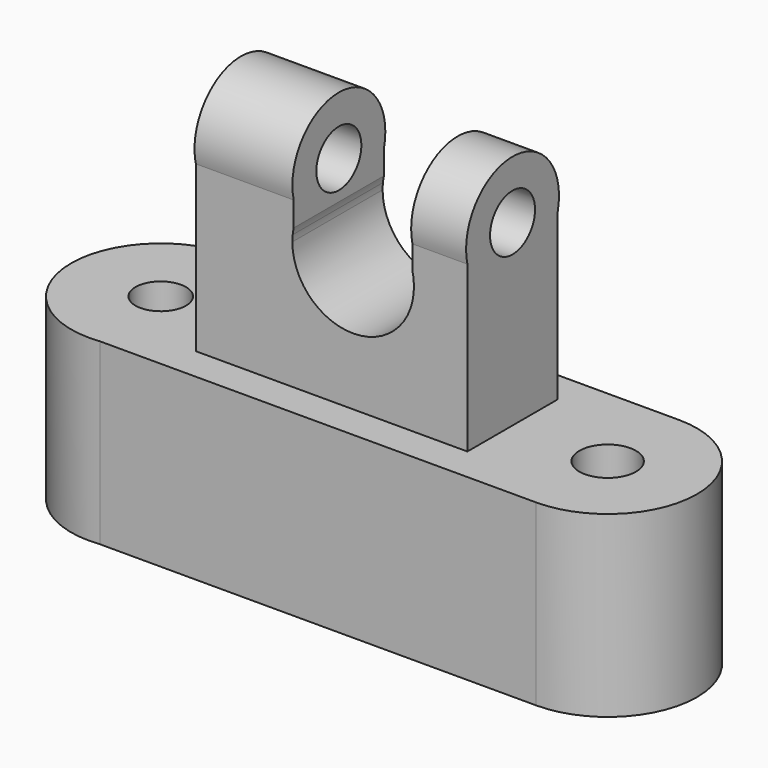
from build123d import *

# Parameters (mm, degrees)
F1_DEPTH  = 25.4
F2_R      = 4.0245383541
F2_R_2    = 3.5896657287
F3_DEPTH  = 25.4
F4_W      = 38.5861545801
F4_H      = 16.0388713703
F5_DEPTH  = 25.4
F6_R      = 8.2548024602
F7_DEPTH  = 38.608
F8_R      = 3.9986797271
F9_DEPTH  = 39.878
F11_DEPTH = 45.212
F12_W     = 16.8811818585
F12_H     = 20.1899148524
F13_DEPTH = 34.29


with BuildPart() as f1:
    # F0 (on Top) → F1 (new body)
    with BuildSketch(Plane.XY):
        with BuildLine():
            ThreePointArc((-29.85904102, -10.2949963908), (-30.9678519001, -7.618090126), (-33.6447581649, -6.5092792459))
            Line((-33.6447581649, -6.5092792459), (-33.6447581649, -14.0807135357))
            ThreePointArc((-33.6447581649, -14.0807135357), (-30.9678519001, -12.9719026556), (-29.85904102, -10.2949963908))
        make_face()
        with BuildLine():
            Line((29.8552418351, -14.3785462744), (29.8552418351, -6.1258107119))
            ThreePointArc((29.8552418351, -6.1258107119), (25.7288740539, -10.2521784931), (29.8552418351, -14.3785462744))
        make_face()
        with BuildLine():
            Line((-33.6447581649, -14.0807135357), (-33.6447581649, -6.5092792459))
            ThreePointArc((-33.6447581649, -6.5092792459), (-37.4304753098, -10.2949963908), (-33.6447581649, -14.0807135357))
        make_face()
        with BuildLine():
            ThreePointArc((33.9816096163, -10.2521784931), (32.7730244749, -7.3343958534), (29.8552418351, -6.1258107119))
            Line((29.8552418351, -6.1258107119), (29.8552418351, -14.3785462744))
            ThreePointArc((29.8552418351, -14.3785462744), (32.7730244749, -13.1699611329), (33.9816096163, -10.2521784931))
        make_face()
        with BuildLine():
            Line((29.8552418351, 2.4478215069), (-33.6447581649, 2.4478215069))
            Line((-33.6447581649, 2.4478215069), (-33.6447581649, -6.5092792459))
            ThreePointArc((-33.6447581649, -6.5092792459), (-30.9678519001, -7.618090126), (-29.85904102, -10.2949963908))
            ThreePointArc((-29.85904102, -10.2949963908), (-30.9678519001, -12.9719026556), (-33.6447581649, -14.0807135357))
            Line((-33.6447581649, -14.0807135357), (-33.6447581649, -22.9521784931))
            Line((-33.6447581649, -22.9521784931), (-32.169919461, -22.9521784931))
            Line((-32.169919461, -22.9521784931), (29.8552418351, -22.9521784931))
            Line((29.8552418351, -22.9521784931), (29.8552418351, -14.3785462744))
            ThreePointArc((29.8552418351, -14.3785462744), (25.7288740539, -10.2521784931), (29.8552418351, -6.1258107119))
            Line((29.8552418351, -6.1258107119), (29.8552418351, 2.4478215069))
        make_face()
        with BuildLine():
            ThreePointArc((29.8552418351, -22.9521784931), (42.5552418351, -10.2521784931), (29.8552418351, 2.4478215069))
            Line((29.8552418351, 2.4478215069), (29.8552418351, -6.1258107119))
            ThreePointArc((29.8552418351, -6.1258107119), (32.7730244749, -7.3343958534), (33.9816096163, -10.2521784931))
            ThreePointArc((33.9816096163, -10.2521784931), (32.7730244749, -13.1699611329), (29.8552418351, -14.3785462744))
            Line((29.8552418351, -14.3785462744), (29.8552418351, -22.9521784931))
        make_face()
        with BuildLine():
            Line((-33.6447581649, -6.5092792459), (-33.6447581649, 2.4478215069))
            ThreePointArc((-33.6447581649, 2.4478215069), (-46.3661490991, -11.033657797), (-32.169919461, -22.9521784931))
            Line((-32.169919461, -22.9521784931), (-33.6447581649, -22.9521784931))
            Line((-33.6447581649, -22.9521784931), (-33.6447581649, -14.0807135357))
            ThreePointArc((-33.6447581649, -14.0807135357), (-37.4304753098, -10.2949963908), (-33.6447581649, -6.5092792459))
        make_face()
    extrude(amount=F1_DEPTH)

    # F2 (on face) → F3 (cut)
    with BuildSketch(Plane.XY.offset(25.4)):
        with Locations((29.8552418351, -10.2521784931)):
            Circle(F2_R)
        with Locations((-33.6447581649, -10.2949963908)):
            Circle(F2_R_2)
    extrude(amount=-F3_DEPTH, mode=Mode.SUBTRACT)

    # F4 (on face) → F5 (join)
    with BuildSketch(Plane.XY.offset(25.4)):
        with Locations((-3.0512139201, -10.1395160891)):
            Rectangle(F4_W, F4_H)
    extrude(amount=F5_DEPTH)

    # F6 (on face) → F7 (join)
    with BuildSketch(Plane.YZ.offset(16.2418633699)):
        with Locations((-10.1395160891, 50.8)):
            Circle(F6_R)
    extrude(amount=-F7_DEPTH)

    # F8 (on face) → F9 (cut)
    with BuildSketch(Plane.YZ.offset(16.2418633699)):
        with Locations((-10.1395160891, 50.8)):
            Circle(F8_R)
    extrude(amount=-F9_DEPTH, mode=Mode.SUBTRACT)

    # F10 (on face) → F11 (cut)
    with BuildSketch(Plane(origin=(0, -2.120080404, 0), x_dir=(-1, 0, 0), z_dir=(0, 1, 0))):
        with BuildLine():
            Line((-6.8240375897, 48.8428554092), (6.8240375897, 48.8428554092))
            ThreePointArc((6.8240375897, 48.8428554092), (0, 52.1820532111), (-6.8240375897, 48.8428554092))
        make_face()
        with BuildLine():
            ThreePointArc((-8.5521200951, 44.7858986511), (-0.6247847998, 34.9197571743), (8.6424546269, 43.5395985842))
            ThreePointArc((8.6424546269, 43.5395985842), (8.6302911684, 43.9979612418), (8.593835031, 44.455033693))
            ThreePointArc((8.593835031, 44.455033693), (8.0150448464, 46.772411305), (6.8240375897, 48.8428554092))
            Line((6.8240375897, 48.8428554092), (-6.8240375897, 48.8428554092))
            ThreePointArc((-6.8240375897, 48.8428554092), (-7.951181096, 46.9264468472), (-8.5521200951, 44.7858986511))
        make_face()
    extrude(amount=-F11_DEPTH, mode=Mode.SUBTRACT)

    # F12 (on Front) → F13 (cut)
    with BuildSketch(Plane.XZ):
        with Locations((-0.0078589655, 53.0204232782)):
            Rectangle(F12_W, F12_H)
    extrude(amount=F13_DEPTH, mode=Mode.SUBTRACT)


solid = f1.part
